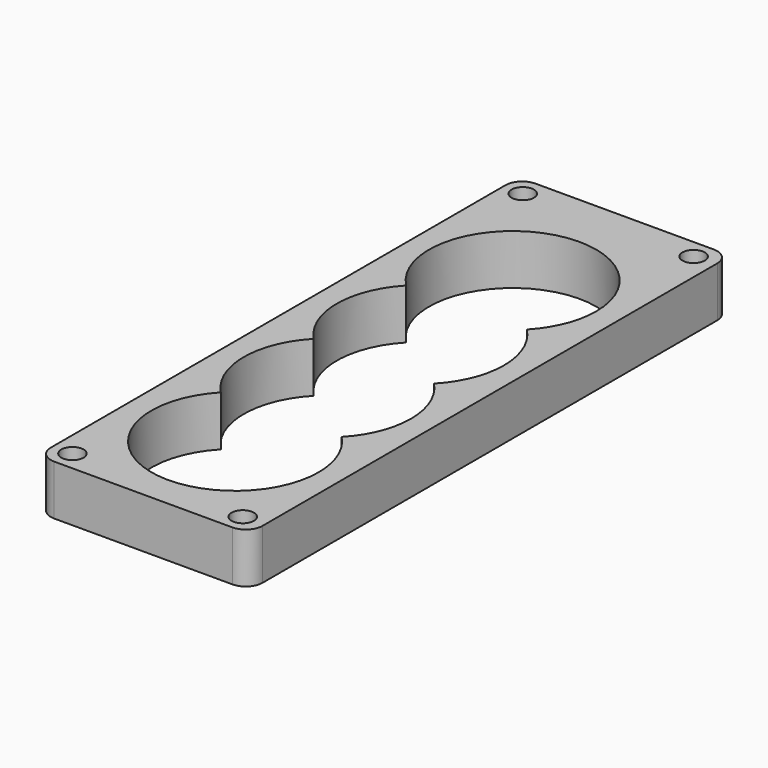
from build123d import *

# Parameters (mm, degrees)
F0_W     = 38
F0_H     = 108
F0_R     = 2
F1_DEPTH = 9
F2_R     = 3


with BuildPart() as f1:
    # F0 (on Top) → F1 (new body)
    with BuildSketch(Plane.XY):
        with BuildLine():
            ThreePointArc((5.706968, -5.714822), (7.712615, -8.087528), (8.791989, -11.000826))
            ThreePointArc((8.791989, -11.000826), (11.232354, -10.554221), (12.600096, -12.624032))
            ThreePointArc((12.600096, -12.624032), (11.232354, -14.693844), (8.791989, -14.247239))
            ThreePointArc((8.791989, -14.247239), (7.713498, -17.159023), (5.709659, -19.530996))
            ThreePointArc((5.709659, -19.530996), (8.425965, -20.996255), (10.784891, -22.986424))
            ThreePointArc((10.784891, -22.986424), (13.862215, -18.206159), (14.939576, -12.624032))
            ThreePointArc((14.939576, -12.624032), (13.862843, -7.043472), (10.787222, -2.264082))
            ThreePointArc((10.787222, -2.264082), (8.425588, -4.252233), (5.706968, -5.714822))
        make_face()
        with BuildLine():
            ThreePointArc((-8.919726, -11.038862), (-7.830592, -8.082615), (-5.789315, -5.682866))
            ThreePointArc((-5.789315, -5.682866), (-8.499762, -4.205185), (-10.850307, -2.203935))
            ThreePointArc((-10.850307, -2.203935), (-15.060422, -12.616237), (-10.861132, -23.032909))
            ThreePointArc((-10.861132, -23.032909), (-8.510775, -21.032627), (-5.800788, -19.555715))
            ThreePointArc((-5.800788, -19.555715), (-7.814796, -17.19237), (-8.905782, -14.285245))
            ThreePointArc((-8.905782, -14.285245), (-12.720827, -12.678409), (-8.919726, -11.038862))
        make_face()
        with BuildLine():
            ThreePointArc((5.603682, 1.265457), (8.381963, -0.225399), (10.787222, -2.264082))
            ThreePointArc((10.787222, -2.264082), (13.905039, 2.536774), (14.997339, 8.156016))
            ThreePointArc((14.997339, 8.156016), (13.878906, 13.839509), (10.690392, 18.675455))
            ThreePointArc((10.690392, 18.675455), (8.324534, 16.666348), (5.595827, 15.187174))
            ThreePointArc((5.595827, 15.187174), (7.57988, 12.907076), (8.697198, 10.09871))
            ThreePointArc((8.697198, 10.09871), (11.379114, 10.5015), (12.850096, 8.223097))
            ThreePointArc((12.850096, 8.223097), (11.379114, 5.944693), (8.697198, 6.347483))
            ThreePointArc((8.697198, 6.347483), (7.582521, 3.543455), (5.603682, 1.265457))
        make_face()
        with BuildLine():
            ThreePointArc((-10.842957, 18.523657), (-15.00266, 8.161334), (-10.850307, -2.203935))
            ThreePointArc((-10.850307, -2.203935), (-8.49497, -0.220064), (-5.784132, 1.241002))
            ThreePointArc((-5.784132, 1.241002), (-7.772737, 3.510479), (-8.899446, 6.309695))
            ThreePointArc((-8.899446, 6.309695), (-13.060362, 8.167454), (-8.915558, 10.060887))
            ThreePointArc((-8.915558, 10.060887), (-7.810312, 12.874025), (-5.83607, 15.162624))
            ThreePointArc((-5.83607, 15.162624), (-8.510157, 16.588935), (-10.842957, 18.523657))
        make_face()
        Rectangle(F0_W, F0_H)
        with Locations((-15.5, -50.5)):
            Circle(F0_R, mode=Mode.SUBTRACT)
        with BuildLine():
            ThreePointArc((14.997339, 8.156016), (13.905039, 2.536774), (10.787222, -2.264082))
            ThreePointArc((10.787222, -2.264082), (13.862843, -7.043472), (14.939576, -12.624032))
            ThreePointArc((14.939576, -12.624032), (13.862215, -18.206159), (10.784891, -22.986424))
            ThreePointArc((10.784891, -22.986424), (13.894801, -27.783287), (14.984183, -33.3953))
            ThreePointArc((14.984183, -33.3953), (-5.597944, -47.317938), (-10.861132, -23.032909))
            ThreePointArc((-10.861132, -23.032909), (-15.060422, -12.616237), (-10.850307, -2.203935))
            ThreePointArc((-10.850307, -2.203935), (-15.00266, 8.161334), (-10.842957, 18.523657))
            ThreePointArc((-10.842957, 18.523657), (-5.833397, 42.924664), (14.850096, 29.043097))
            ThreePointArc((14.850096, 29.043097), (13.771383, 23.457599), (10.690392, 18.675455))
            ThreePointArc((10.690392, 18.675455), (13.878906, 13.839509), (14.997339, 8.156016))
        make_face(mode=Mode.SUBTRACT)
        with Locations((15.107894, -50.56573)):
            Circle(F0_R, mode=Mode.SUBTRACT)
        with Locations((-15.5, 50.5)):
            Circle(F0_R, mode=Mode.SUBTRACT)
        with Locations((15.107894, 50.56573)):
            Circle(F0_R, mode=Mode.SUBTRACT)
    extrude(amount=F1_DEPTH)

    # F2
    f2_edges = [f1.edges().sort_by_distance(p)[0] for p in [
        (19, 54, 4.5),
        (19, -54, 4.5),
        (-19, -54, 4.5),
        (-19, 54, 4.5),
    ]]
    fillet(f2_edges, radius=F2_R)


solid = f1.part
